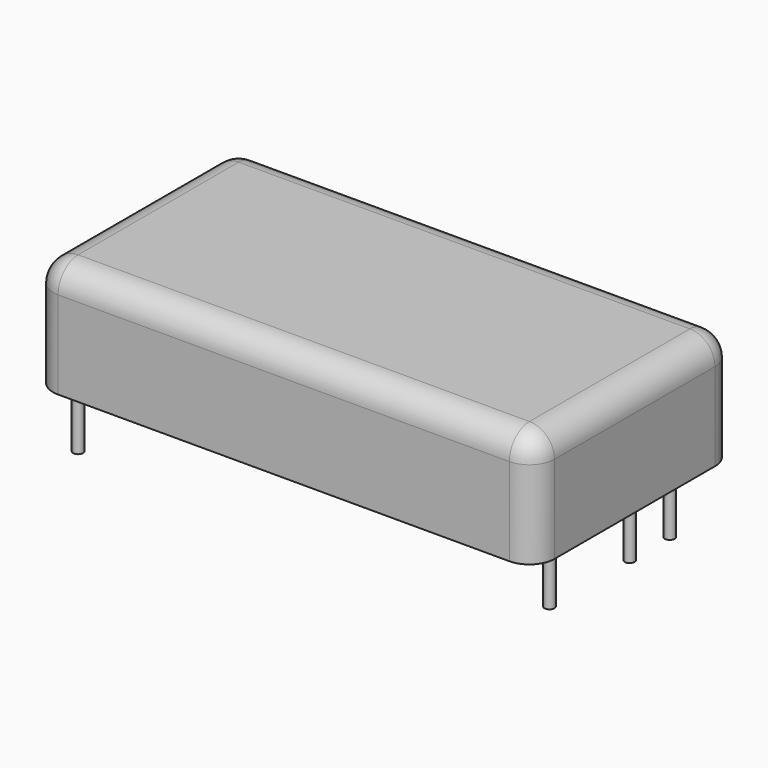
from build123d import *

# Parameters (mm, degrees)
F0_W     = 50.8
F0_H     = 25.4
F1_DEPTH = 11.43
F2_R     = 2.54
F3_R     = 2.54
F4_R     = 0.508
F5_DEPTH = 6.096
F6_DEPTH = 0.0508


with BuildPart() as f1:
    # F0 (on Top) → F1 (new body)
    with BuildSketch(Plane.XY):
        Rectangle(F0_W, F0_H)
    extrude(amount=F1_DEPTH)

    # F2
    f2_edges = [f1.edges().sort_by_distance(p)[0] for p in [
        (25.4, -12.7, 5.715),
        (-25.4, -12.7, 5.715),
        (25.4, 12.7, 5.715),
        (-25.4, 12.7, 5.715),
    ]]
    fillet(f2_edges, radius=F2_R)

    # F3
    f3_edges = [f1.edges().sort_by_distance(p)[0] for p in [
        (0, 12.7, 11.43),
    ]]
    fillet(f3_edges, radius=F3_R)

    # F4 (on face) → F5 (join)
    with BuildSketch(Plane(origin=(0, 0, 0), x_dir=(1, 0, 0), z_dir=(0, 0, -1))):
        with Locations((22.86, 7.62)):
            Circle(F4_R)
        with Locations((22.86, -2.54)):
            Circle(F4_R)
        with Locations((22.86, -7.62)):
            Circle(F4_R)
        with Locations((-22.86, -10.16)):
            Circle(F4_R)
        with Locations((-22.86, 0)):
            Circle(F4_R)
        with Locations((-22.86, 10.16)):
            Circle(F4_R)
    extrude(amount=F5_DEPTH)

    # F4 (on face) → F6 (join)
    with BuildSketch(Plane(origin=(0, 0, 0), x_dir=(1, 0, 0), z_dir=(0, 0, -1))):
        with Locations((-22.86, -10.16)):
            Circle(F4_R)
        with Locations((-22.86, 0)):
            Circle(F4_R)
        with Locations((-22.86, 10.16)):
            Circle(F4_R)
        with Locations((22.86, 7.62)):
            Circle(F4_R)
        with Locations((22.86, -2.54)):
            Circle(F4_R)
        with Locations((22.86, -7.62)):
            Circle(F4_R)
        with Locations((-20.32, -10.16)):
            Circle(F4_R)
        with Locations((-20.32, 10.16)):
            Circle(F4_R)
        with Locations((20.32, -7.62)):
            Circle(F4_R)
        with Locations((20.32, 7.62)):
            Circle(F4_R)
    extrude(amount=F6_DEPTH)


solid = f1.part
